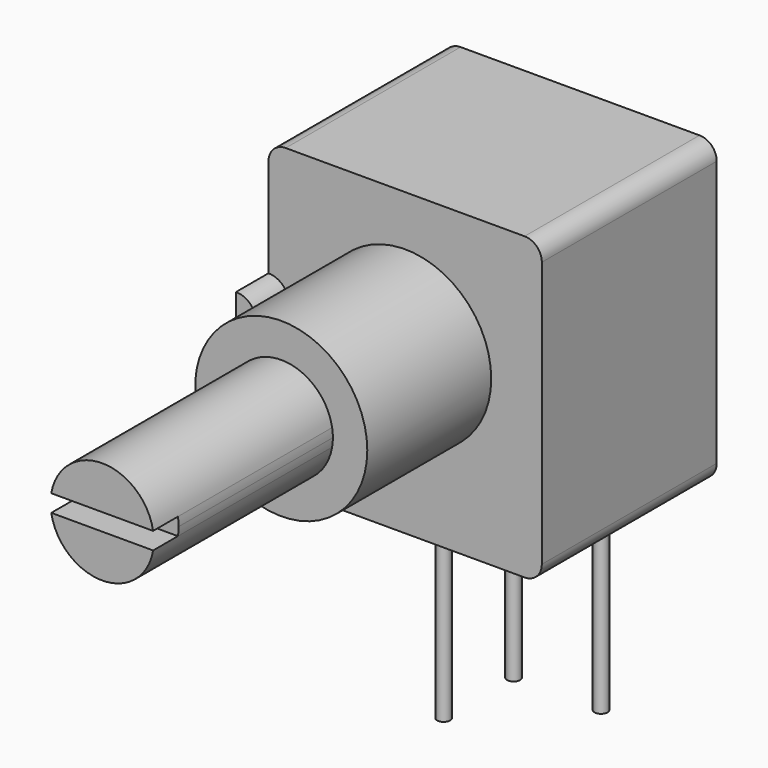
from build123d import *

# Parameters (mm, degrees)
F0_R     = 5
F1_DEPTH = 12.7
F2_DEPTH = 22
F3_DEPTH = 20.2
F4_DEPTH = 9
F5_DEPTH = 2.36
F6_R     = 0.38
F7_DEPTH = 12.7


with BuildPart() as f1:
    # F0 (on Front) → F1 (new body)
    with BuildSketch(Plane.XZ):
        with BuildLine():
            Line((-6.94, -9.53), (6.94, -9.53))
            ThreePointArc((6.94, -9.53), (7.647107, -9.237107), (7.94, -8.53))
            Line((7.94, -8.53), (7.94, 6.92))
            ThreePointArc((7.94, 6.92), (7.647107, 7.627107), (6.94, 7.92))
            Line((6.94, 7.92), (-6.94, 7.92))
            ThreePointArc((-6.94, 7.92), (-7.647107, 7.627107), (-7.94, 6.92))
            Line((-7.94, 6.92), (-7.94, 1.19))
            ThreePointArc((-7.94, 1.19), (-6.75, 0), (-7.94, -1.19))
            Line((-7.94, -1.19), (-7.94, -8.53))
            ThreePointArc((-7.94, -8.53), (-7.647107, -9.237107), (-6.94, -9.53))
        make_face()
        Circle(F0_R, mode=Mode.SUBTRACT)
        Circle(F0_R)
        with BuildLine():
            ThreePointArc((2.95804, 0.5), (2.989492, 0.250879), (3, 0))
            ThreePointArc((3, 0), (2.989492, -0.250879), (2.95804, -0.5))
            ThreePointArc((2.95804, -0.5), (0, -3), (-2.95804, -0.5))
            ThreePointArc((-2.95804, -0.5), (-3, 0), (-2.95804, 0.5))
            ThreePointArc((-2.95804, 0.5), (0, 3), (2.95804, 0.5))
        make_face(mode=Mode.SUBTRACT)
        with BuildLine():
            Line((-7.94, 1.19), (-7.94, -1.19))
            ThreePointArc((-7.94, -1.19), (-6.75, 0), (-7.94, 1.19))
        make_face()
        with BuildLine():
            ThreePointArc((2.95804, -0.5), (2.989492, -0.250879), (3, 0))
            ThreePointArc((3, 0), (2.989492, 0.250879), (2.95804, 0.5))
            Line((2.95804, 0.5), (-2.95804, 0.5))
            ThreePointArc((-2.95804, 0.5), (-3, 0), (-2.95804, -0.5))
            Line((-2.95804, -0.5), (2.95804, -0.5))
        make_face()
        with BuildLine():
            Line((-2.95804, 0.5), (2.95804, 0.5))
            ThreePointArc((2.95804, 0.5), (0, 3), (-2.95804, 0.5))
        make_face()
        with BuildLine():
            ThreePointArc((-2.95804, -0.5), (0, -3), (2.95804, -0.5))
            Line((2.95804, -0.5), (-2.95804, -0.5))
        make_face()
    extrude(amount=-F1_DEPTH)

    # F0 (on Front) → F2 (join)
    with BuildSketch(Plane.XZ):
        with BuildLine():
            Line((-2.95804, 0.5), (2.95804, 0.5))
            ThreePointArc((2.95804, 0.5), (0, 3), (-2.95804, 0.5))
        make_face()
        with BuildLine():
            ThreePointArc((-2.95804, -0.5), (0, -3), (2.95804, -0.5))
            Line((2.95804, -0.5), (-2.95804, -0.5))
        make_face()
    extrude(amount=F2_DEPTH)

    # F0 (on Front) → F3 (join)
    with BuildSketch(Plane.XZ):
        with BuildLine():
            ThreePointArc((2.95804, -0.5), (2.989492, -0.250879), (3, 0))
            ThreePointArc((3, 0), (2.989492, 0.250879), (2.95804, 0.5))
            Line((2.95804, 0.5), (-2.95804, 0.5))
            ThreePointArc((-2.95804, 0.5), (-3, 0), (-2.95804, -0.5))
            Line((-2.95804, -0.5), (2.95804, -0.5))
        make_face()
    extrude(amount=F3_DEPTH)

    # F0 (on Front) → F4 (join)
    with BuildSketch(Plane.XZ):
        Circle(F0_R)
        with BuildLine():
            ThreePointArc((2.95804, 0.5), (2.989492, 0.250879), (3, 0))
            ThreePointArc((3, 0), (2.989492, -0.250879), (2.95804, -0.5))
            ThreePointArc((2.95804, -0.5), (0, -3), (-2.95804, -0.5))
            ThreePointArc((-2.95804, -0.5), (-3, 0), (-2.95804, 0.5))
            ThreePointArc((-2.95804, 0.5), (0, 3), (2.95804, 0.5))
        make_face(mode=Mode.SUBTRACT)
    extrude(amount=F4_DEPTH)

    # F0 (on Front) → F5 (join)
    with BuildSketch(Plane.XZ):
        with BuildLine():
            Line((-7.94, 1.19), (-7.94, -1.19))
            ThreePointArc((-7.94, -1.19), (-6.75, 0), (-7.94, 1.19))
        make_face()
    extrude(amount=F5_DEPTH)

    # F6 (on face) → F7 (join)
    with BuildSketch(Plane(origin=(0, 0, -9.53), x_dir=(1, 0, 0), z_dir=(0, 0, -1))):
        with Locations((-2.54, -5.97)):
            Circle(F6_R)
        with Locations((-2.54, -11.05)):
            Circle(F6_R)
        with Locations((2.54, -11.05)):
            Circle(F6_R)
    extrude(amount=F7_DEPTH)


solid = f1.part
